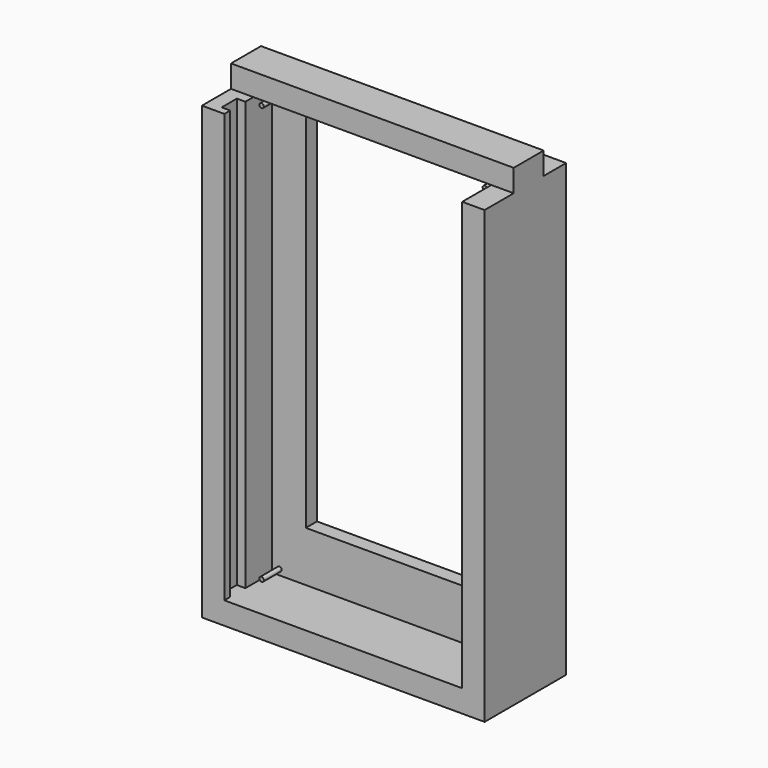
from build123d import *

# Parameters (mm, degrees)
F0_W     = 425
F0_H     = 765
F0_R     = 4
F1_DEPTH = 25
F2_DEPTH = 65
F3_DEPTH = 65
F4_DEPTH = 50
F5_DEPTH = 67
F6_W     = 15.2404187247
F6_H     = 33.9140146971
F7_DEPTH = 765


with BuildPart() as f1:
    # F0 (on Front) → F1 (new body)
    with BuildSketch(Plane.XZ):
        Polygon((425, 0), (0, 0), (0, 765), (-40, 765), (-40, -40), (465, -40), (465, 765), (425, 765), align=None)
        with Locations((212.5, 382.5)):
            Rectangle(F0_W, F0_H)
        with Locations((13, 10)):
            Circle(F0_R, mode=Mode.SUBTRACT)
        with Locations((412, 10)):
            Circle(F0_R, mode=Mode.SUBTRACT)
        with Locations((13, 755)):
            Circle(F0_R, mode=Mode.SUBTRACT)
        with BuildLine():
            ThreePointArc((408, 755), (412, 759), (416, 755))
            ThreePointArc((416, 755), (414, 751.5358983849), (410, 751.5358983849))
            Line((410, 751.5358983849), (410, 90))
            Line((410, 90), (60, 90))
            Line((60, 90), (60, 755))
            Line((60, 755), (408, 755))
        make_face(mode=Mode.SUBTRACT)
    extrude(amount=F1_DEPTH)

    # F0 (on Front) → F2 (join)
    with BuildSketch(Plane.XZ):
        with BuildLine():
            Line((410, 755), (408, 755))
            ThreePointArc((408, 755), (408.5358983849, 753), (410, 751.5358983849))
            Line((410, 751.5358983849), (410, 755))
        make_face()
        with BuildLine():
            ThreePointArc((410, 751.5358983849), (414, 751.5358983849), (416, 755))
            ThreePointArc((416, 755), (412, 759), (408, 755))
            Line((408, 755), (410, 755))
            Line((410, 755), (410, 751.5358983849))
        make_face()
        with Locations((13, 755)):
            Circle(F0_R)
        with Locations((412, 10)):
            Circle(F0_R)
        with Locations((13, 10)):
            Circle(F0_R)
    extrude(amount=F2_DEPTH)

    # F0 (on Front) → F3 (join, through all)
    with BuildSketch(Plane.XZ):
        Polygon((425, 0), (0, 0), (0, 765), (-40, 765), (-40, -40), (465, -40), (465, 765), (425, 765), align=None)
    extrude(amount=F3_DEPTH)

    # F0 (on Front) → F4 (join)
    with BuildSketch(Plane.XZ):
        Polygon((425, 0), (0, 0), (0, 765), (-40, 765), (-40, -40), (465, -40), (465, 765), (425, 765), align=None)
    extrude(amount=-F4_DEPTH)

    # F0 (on Front) + F3_face (on face) → F5 (join)
    with BuildSketch(Plane.XZ):
        Polygon((425, 0), (0, 0), (0, 765), (-40, 765), (-40, -40), (465, -40), (465, 765), (425, 765), align=None)
        Polygon((-40, 765), (0, 765), (425, 765), (465, 765), (465, 805), (-40, 805), align=None)
    with BuildSketch(Plane(origin=(212.5, -65, 282.6167076167), x_dir=(1, 0, 0), z_dir=(0, -1, 0))):
        Polygon((212.5, -282.6167076167), (-212.5, -282.6167076167), (-212.5, 482.3832923833), (-252.5, 482.3832923833), (-252.5, -322.6167076167), (252.5, -322.6167076167), (252.5, 482.3832923833), (212.5, 482.3832923833), align=None)
    extrude(amount=F5_DEPTH)

    # F6 (on face) → F7 (cut, through all)
    with BuildSketch(Plane.XY.offset(765)):
        with Locations((-7.6202093624, -101.892054081)):
            Rectangle(F6_W, F6_H)
    extrude(amount=-F7_DEPTH, mode=Mode.SUBTRACT)


solid = f1.part
